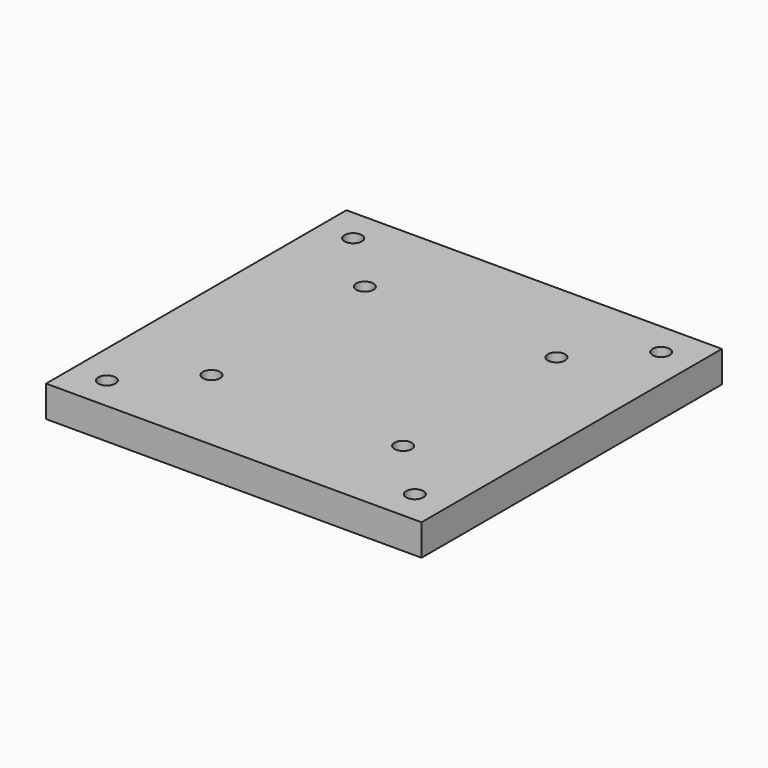
from build123d import *

# Parameters (mm, degrees)
F0_W     = 152.4
F0_H     = 152.4
F0_R     = 3.5
F1_DEPTH = 12.7


with BuildPart() as f1:
    # F0 (on Top) → F1 (new body)
    with BuildSketch(Plane.XY):
        Rectangle(F0_W, F0_H)
        with Locations((-62.5, -62.5)):
            Circle(F0_R, mode=Mode.SUBTRACT)
        with Locations((-38.890873, -38.890873)):
            Circle(F0_R, mode=Mode.SUBTRACT)
        with Locations((62.5, -62.5)):
            Circle(F0_R, mode=Mode.SUBTRACT)
        with Locations((38.890873, -38.890873)):
            Circle(F0_R, mode=Mode.SUBTRACT)
        with Locations((-38.890873, 38.890873)):
            Circle(F0_R, mode=Mode.SUBTRACT)
        with Locations((-62.5, 62.5)):
            Circle(F0_R, mode=Mode.SUBTRACT)
        with Locations((38.890873, 38.890873)):
            Circle(F0_R, mode=Mode.SUBTRACT)
        with Locations((62.5, 62.5)):
            Circle(F0_R, mode=Mode.SUBTRACT)
    extrude(amount=F1_DEPTH)


solid = f1.part
